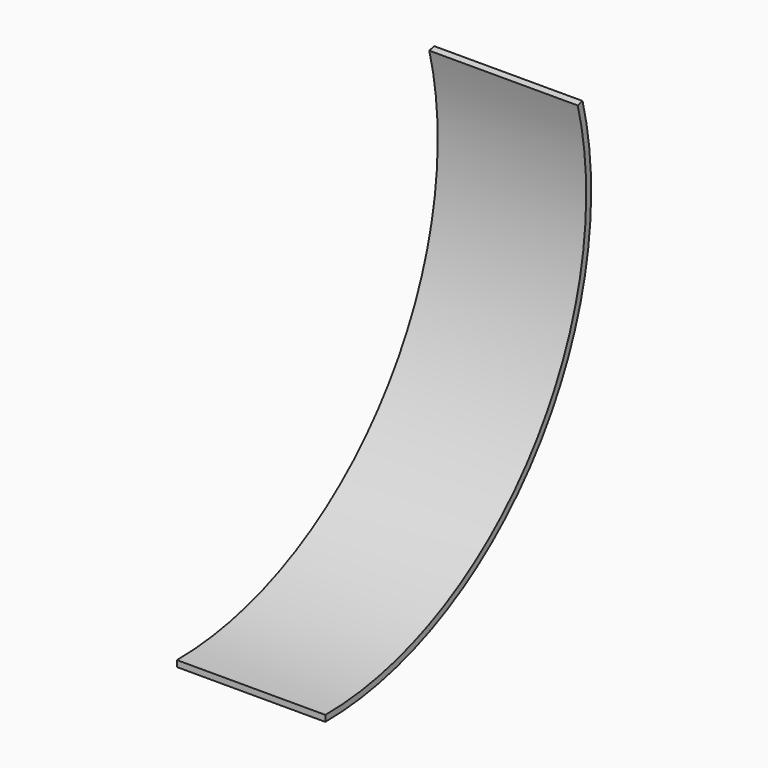
from build123d import *

# Parameters (mm, degrees)
F1_DEPTH = 152.4


with BuildPart() as f1:
    # F0 (on Right) → F1 (new body)
    with BuildSketch(Plane.YZ):
        with BuildLine():
            ThreePointArc((63.52207, 228.455188), (4.487062, -60.607465), (-260.338612, -190.644812))
            Line((-260.338612, -190.644812), (-260.338612, -196.994812))
            ThreePointArc((-260.338612, -196.994812), (9.51166, -64.490237), (69.666752, 230.056868))
            Line((69.666752, 230.056868), (63.52207, 228.455188))
        make_face()
    extrude(amount=F1_DEPTH)


solid = f1.part
